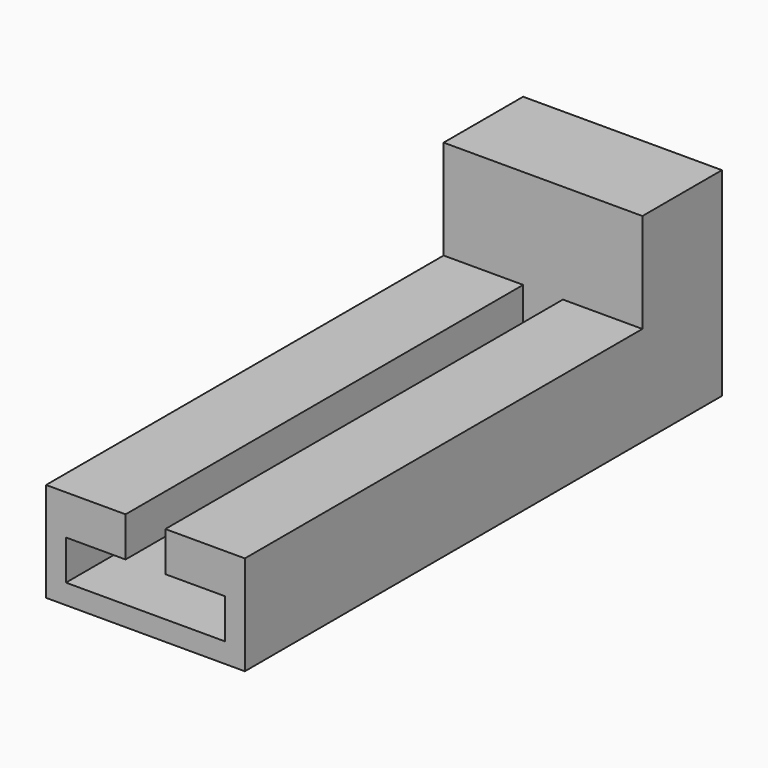
from build123d import *

# Parameters (mm, degrees)
F0_W     = 50
F0_H     = 150
F1_DEPTH = 25
F3_DEPTH = 125
F5_DEPTH = 25


with BuildPart() as f1:
    # F0 (on Top) → F1 (new body)
    with BuildSketch(Plane.XY):
        Rectangle(F0_W, F0_H)
    extrude(amount=F1_DEPTH)

    # F2 (on face) → F3 (cut)
    with BuildSketch(Plane.XZ.offset(75)):
        Polygon((5, 25), (0, 25), (-5, 25), (-5, 15), (-20, 15), (-20, 5), (0, 5), (20, 5), (20, 15), (5, 15), align=None)
    extrude(amount=-F3_DEPTH, mode=Mode.SUBTRACT)

    # F4 (on face) → F5 (join)
    with BuildSketch(Plane.XY.offset(25)):
        Polygon((-25, 50), (-5, 50), (5, 50), (25, 50), (25, 75), (-25, 75), align=None)
    extrude(amount=F5_DEPTH)


solid = f1.part
